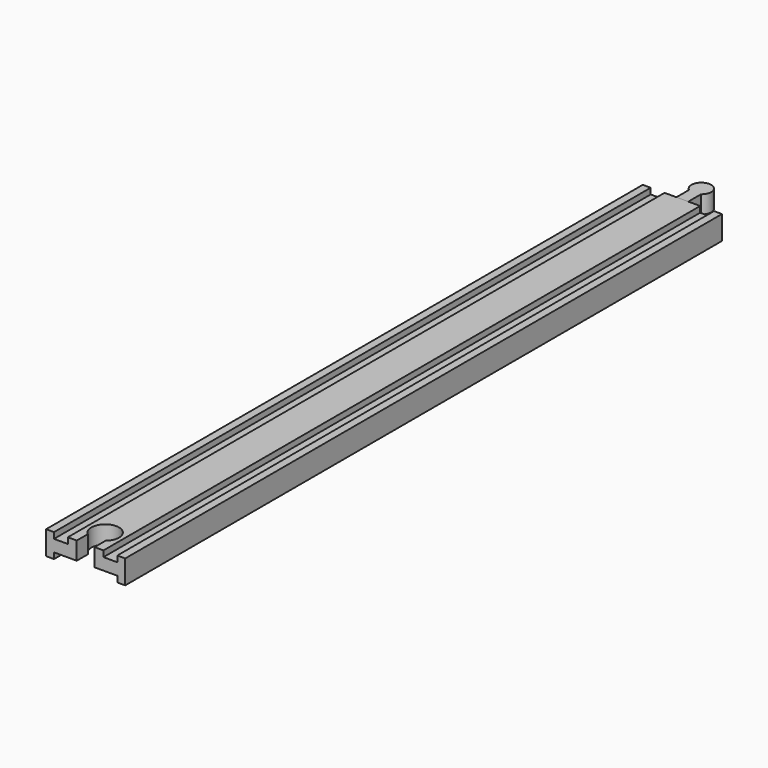
from build123d import *

# Parameters (mm, degrees)
PAD_DEPTH         = 377
POCKET_DEPTH      = 12.001
PAD001_DEPTH      = 6
PAD001_DEPTH_BACK = 3


with BuildPart() as body:
    # Sketch → Pad (new body)
    with BuildSketch(Plane.XZ):
        Polygon((-20, 6), (-20, -6), (-16, -6), (-16, -3), (-9, -3), (9, -3), (16, -3), (16, -6), (20, -6), (20, 6), (16, 6), (16, 3), (9, 3), (9, 6), (-9, 6), (-9, 3), (-16, 3), (-16, 6), align=None)
    extrude(amount=PAD_DEPTH)

    # Sketch002 (on Face14 of Pad) → Pocket (cut, through all)
    with BuildSketch(Plane(origin=(0, 0, 6), x_dir=(-1, 0, 0), z_dir=(0, 0, 1))):
        with BuildLine():
            Line((-4.5, 377), (4.5, 377))
            Line((4.5, 377), (4.5, 370))
            ThreePointArc((-4.5, 370), (0, 357.638097), (4.5, 370))
            Line((-4.5, 377), (-4.5, 370))
        make_face()
    extrude(amount=-POCKET_DEPTH, mode=Mode.SUBTRACT)


with BuildPart() as body001:
    # Sketch001 → Pad001 (new body, two sides)
    with BuildSketch(Plane.XY) as pad001_sk:
        with BuildLine():
            Line((-3, 0), (3, 0))
            Line((3, 0), (3, 8))
            ThreePointArc((3, 8), (0, 17), (-3, 8))
            Line((-3, 0), (-3, 8))
        make_face()
    extrude(amount=PAD001_DEPTH)
    extrude(pad001_sk.sketch, amount=-PAD001_DEPTH_BACK)


solid = Compound([body.part, body001.part])
